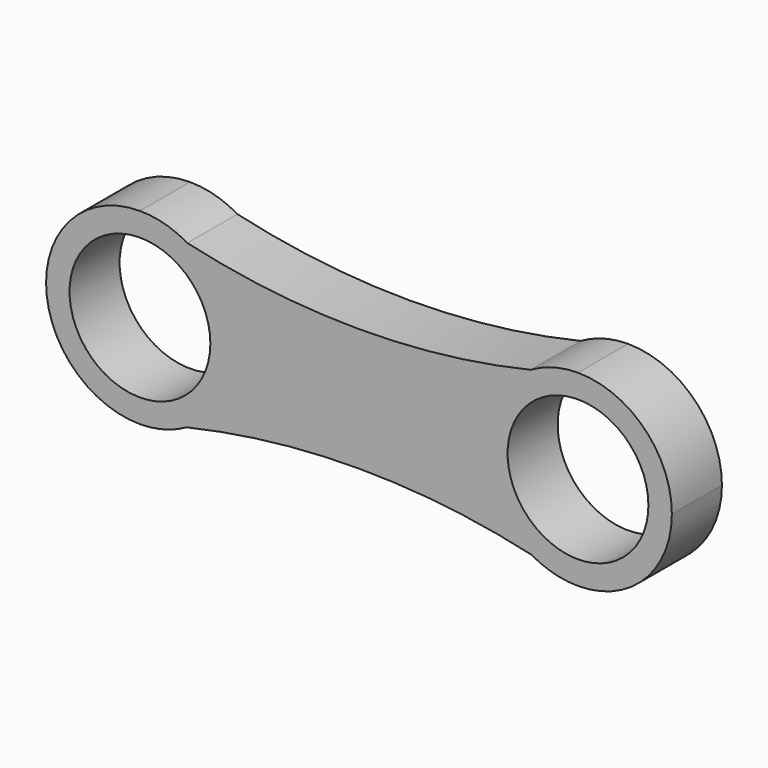
from build123d import *

# Parameters (mm, degrees)
F0_R     = 28.575
F1_DEPTH = 25.4


with BuildPart() as f1:
    # F0 (on Front) → F1 (new body)
    with BuildSketch(Plane.XZ):
        with BuildLine():
            ThreePointArc((-69.669226, 32.890535), (-79.327388, 35.337363), (-88.9, 38.1))
            ThreePointArc((-88.9, 38.1), (-127, 0), (-88.9, -38.1))
            ThreePointArc((-88.9, -38.1), (-79.484753, -35.438589), (-69.9901, -33.076059))
            ThreePointArc((-69.9901, -33.076059), (-55.9449, -19.119922), (-50.8, 0))
            ThreePointArc((-50.8, 0), (-55.852288, 18.959397), (-69.669226, 32.890535))
        make_face()
        with Locations((-88.9, 0)):
            Circle(F0_R, mode=Mode.SUBTRACT)
        with BuildLine():
            ThreePointArc((-69.669226, 32.890535), (-78.938057, 36.77458), (-88.9, 38.1))
            ThreePointArc((-88.9, 38.1), (-79.327388, 35.337363), (-69.669226, 32.890535))
        make_face()
        with BuildLine():
            ThreePointArc((-69.9901, -33.076059), (-79.484753, -35.438589), (-88.9, -38.1))
            ThreePointArc((-88.9, -38.1), (-79.117052, -36.822601), (-69.9901, -33.076059))
        make_face()
        with BuildLine():
            ThreePointArc((69.669226, 32.890535), (0, 24.782982), (-69.669226, 32.890535))
            ThreePointArc((-69.669226, 32.890535), (-55.852288, 18.959397), (-50.8, 0))
            ThreePointArc((-50.8, 0), (-55.9449, -19.119922), (-69.9901, -33.076059))
            ThreePointArc((-69.9901, -33.076059), (0, -25.059942), (69.9901, -33.076059))
            ThreePointArc((69.9901, -33.076059), (50.800451, -0.185323), (69.669226, 32.890535))
        make_face()
        with BuildLine():
            ThreePointArc((88.9, 38.1), (79.327388, 35.337363), (69.669226, 32.890535))
            ThreePointArc((69.669226, 32.890535), (50.800451, -0.185323), (69.9901, -33.076059))
            ThreePointArc((69.9901, -33.076059), (79.484753, -35.438589), (88.9, -38.1))
            ThreePointArc((88.9, -38.1), (115.840768, -26.940768), (127, 0))
            ThreePointArc((127, 0), (115.840768, 26.940768), (88.9, 38.1))
        make_face()
        with Locations((88.9, 0)):
            Circle(F0_R, mode=Mode.SUBTRACT)
        with BuildLine():
            ThreePointArc((88.9, 38.1), (78.938057, 36.77458), (69.669226, 32.890535))
            ThreePointArc((69.669226, 32.890535), (79.327388, 35.337363), (88.9, 38.1))
        make_face()
        with BuildLine():
            ThreePointArc((88.9, -38.1), (79.484753, -35.438589), (69.9901, -33.076059))
            ThreePointArc((69.9901, -33.076059), (79.117052, -36.822601), (88.9, -38.1))
        make_face()
    extrude(amount=F1_DEPTH)


solid = f1.part
